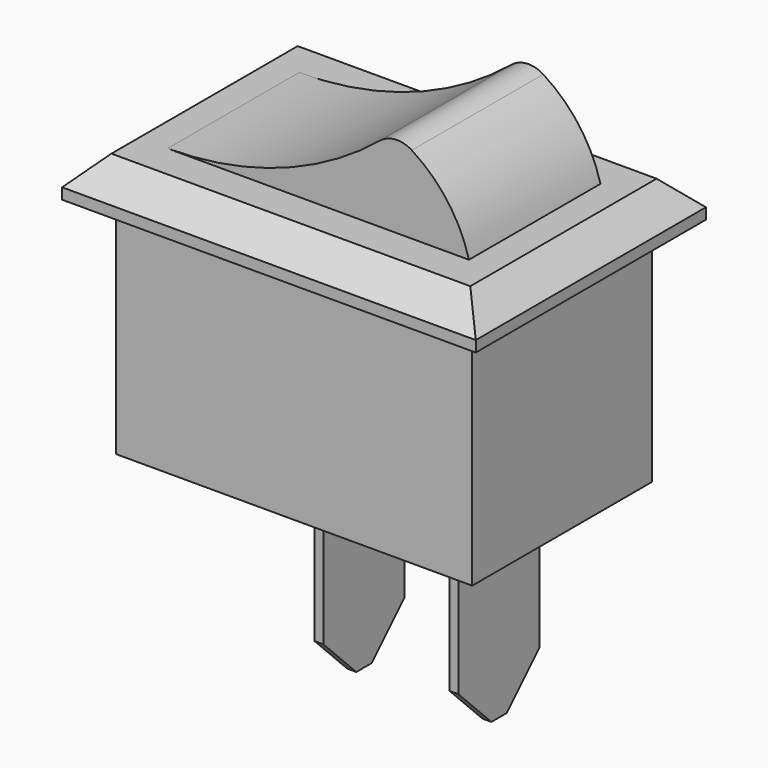
from build123d import *

# Parameters (mm, degrees)
SKETCH_W        = 13
SKETCH_H        = 8.2
PAD_DEPTH       = 8.3
SKETCH001_W     = 15.1
SKETCH001_H     = 10.5
PAD001_DEPTH    = 1.4
CHAMFER_SIZE    = 1
PAD002_DEPTH    = 3
FILLET_R        = 1
SKETCH003_W     = 0.33
SKETCH003_H     = 3.7
PAD003_DEPTH    = 6.65
CHAMFER001_SIZE = 1.5


with BuildPart() as part:
    # Sketch → Pad (new body)
    with BuildSketch(Plane.XY):
        Rectangle(SKETCH_W, SKETCH_H)
    extrude(amount=-PAD_DEPTH)

    # Sketch001 → Pad001 (join)
    with BuildSketch(Plane.XY):
        Rectangle(SKETCH001_W, SKETCH001_H)
    extrude(amount=PAD001_DEPTH)

    # Chamfer
    chamfer_edges = [part.edges().sort_by_distance(p)[0] for p in [
        (-7.55, 0, 1.4),
        (0, 5.25, 1.4),
        (7.55, 0, 1.4),
        (0, -5.25, 1.4),
    ]]
    chamfer(chamfer_edges, length=CHAMFER_SIZE)

    # Sketch002 → Pad002 (join, symmetric)
    with BuildSketch(Plane.XZ):
        with BuildLine():
            Line((-5.5, 1.4), (5.5, 1.4))
            ThreePointArc((5.5, 1.4), (4.48879, 3.316002), (2.739315, 4.593869))
            ThreePointArc((-5.5, 1.4), (-1.081654, 2.2264), (2.739315, 4.593869))
        make_face()
    extrude(amount=PAD002_DEPTH, both=True)

    # Fillet
    fillet_edges = [part.edges().sort_by_distance(p)[0] for p in [
        (2.739315, 0, 4.593869),
    ]]
    fillet(fillet_edges, radius=FILLET_R)

    # Sketch003 (on DatumPlane) → Pad003 (join)
    with BuildSketch(Plane.XY.offset(-8.3)):
        with Locations((4.035, 0)):
            Rectangle(SKETCH003_W, SKETCH003_H)
        with Locations((-0.895, 0)):
            Rectangle(SKETCH003_W, SKETCH003_H)
    extrude(amount=-PAD003_DEPTH)

    # Chamfer001
    chamfer001_edges = [part.edges().sort_by_distance(p)[0] for p in [
        (4.035, 1.85, -14.95),
        (4.035, -1.85, -14.95),
        (-0.895, 1.85, -14.95),
        (-0.895, -1.85, -14.95),
    ]]
    chamfer(chamfer001_edges, length=CHAMFER001_SIZE)


solid = part.part
